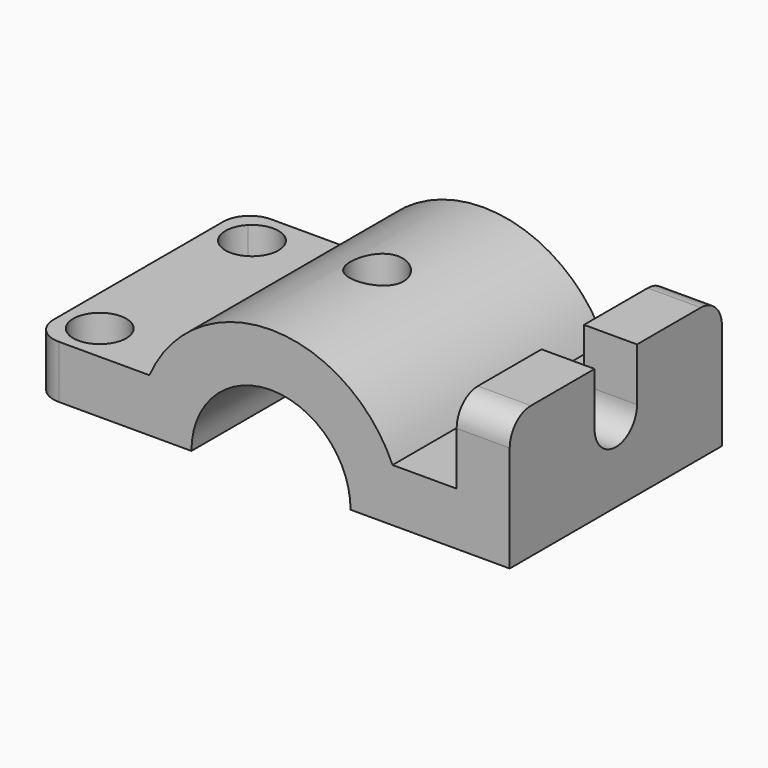
from build123d import *

# Parameters (mm, degrees)
F1_DEPTH = 50
F3_DEPTH = 10
F5_DEPTH = 10
F7_DEPTH = 25.9997663884
F8_R     = 5
F9_R     = 5


with BuildPart() as f1:
    # F0 (on Front) → F1 (new body)
    with BuildSketch(Plane.XZ):
        with BuildLine():
            Line((0, 10), (0, 0))
            Line((0, 0), (30, 0))
            ThreePointArc((30.0000000018, 0), (45.0002337116, 14.9997662866), (59.9999999982, -0.0004674232))
            Line((60, -0.0004674232), (89.9999999964, 0))
            Line((89.9999999964, 0), (89.999610477, 24.999999997))
            Line((89.999610477, 24.999999997), (79.9996104782, 24.9998441892))
            Line((79.9996104782, 24.9998441892), (79.9998441898, 9.999844191))
            Line((79.9998441898, 9.999844191), (67.9129266661, 9.9996558675))
            ThreePointArc((67.9129266661, 9.9996558675), (45.0001877399, 24.9997662877), (22.0872235267, 10))
            Line((22.0872235267, 10), (0, 10))
        make_face()
    extrude(amount=-F1_DEPTH)

    # F2 (on face) → F3 (cut, through all)
    with BuildSketch(Plane(origin=(89.9999999745, 0, 0.0014022697), x_dir=(0, 1, 0), z_dir=(0.9999999999, 0, 1.55808e-05))):
        with BuildLine():
            Line((30, 24.9985977303), (20, 24.9985977303))
            Line((20, 24.9985977303), (20, 14.9985977303))
            ThreePointArc((20, 14.9985977303), (25, 9.9985977303), (30, 14.9985977303))
            Line((30, 14.9985977303), (30, 24.9985977303))
        make_face()
    extrude(amount=-F3_DEPTH, mode=Mode.SUBTRACT)

    # F4 (on face) → F5 (cut, through all)
    with BuildSketch(Plane.XY.offset(10)):
        with BuildLine():
            ThreePointArc((12.0710678119, 42.9289321881), (8.9844849737, 47.5483298507), (3.5355339059, 46.4644660941))
            ThreePointArc((3.5355339059, 46.4644660941), (5.15765065, 38.3095345256), (12.0710678119, 42.9289321881))
        make_face()
        with BuildLine():
            ThreePointArc((12.0710678119, 7.0710678119), (5.15765065, 11.6904654744), (3.5355339059, 3.5355339059))
            ThreePointArc((3.5355339059, 3.5355339059), (8.9844849737, 2.4516701493), (12.0710678119, 7.0710678119))
        make_face()
    extrude(amount=-F5_DEPTH, mode=Mode.SUBTRACT)

    # F6 (on Top) → F7 (cut, up to face)
    with BuildSketch(Plane.XY):
        with BuildLine():
            ThreePointArc((45, 20), (48.5355339059, 21.4644660941), (50, 25))
            ThreePointArc((50, 25), (41.4644660941, 28.5355339059), (45, 20))
        make_face()
    extrude(amount=F7_DEPTH, mode=Mode.SUBTRACT)

    # F8
    f8_edges = [f1.edges().sort_by_distance(p)[0] for p in [
        (0, 0, 5),
        (0, 50, 5),
    ]]
    fillet(f8_edges, radius=F8_R)

    # F9
    f9_edges = [f1.edges().sort_by_distance(p)[0] for p in [
        (84.99961, 0, 24.999922),
        (84.99961, 50, 24.999922),
    ]]
    fillet(f9_edges, radius=F9_R)


solid = f1.part
